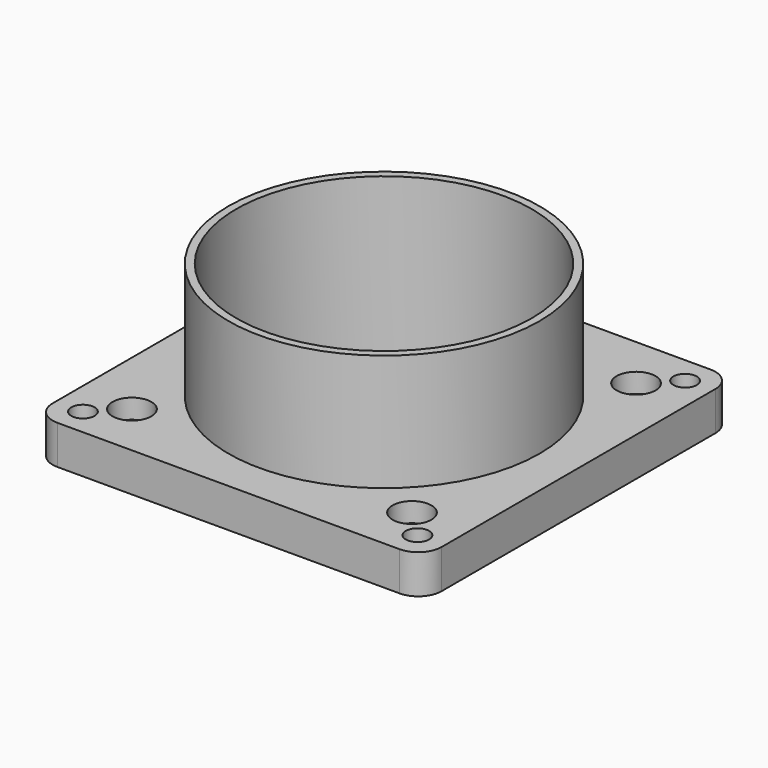
from build123d import *

# Parameters (mm, degrees)
SKETCH_W        = 100
SKETCH_H        = 100
PAD_DEPTH       = 10
SKETCH001_R     = 40
PAD001_DEPTH    = 30
SKETCH002_R     = 38
POCKET_DEPTH    = 55
SKETCH003_R     = 3
POCKET001_DEPTH = 10
SKETCH004_R     = 3
POCKET002_DEPTH = 10
SKETCH005_R     = 5
POCKET003_DEPTH = 5
FILLET_R        = 6


with BuildPart() as part:
    # Sketch → Pad (new body)
    with BuildSketch(Plane.XY):
        Rectangle(SKETCH_W, SKETCH_H)
    extrude(amount=PAD_DEPTH)

    # Sketch001 (on Face6 of Pad) → Pad001 (join)
    with BuildSketch(Plane.XY.offset(10)):
        Circle(SKETCH001_R)
    extrude(amount=PAD001_DEPTH)

    # Sketch002 (on Face8 of Pad001) → Pocket (cut)
    with BuildSketch(Plane.XY.offset(40)):
        Circle(SKETCH002_R)
    extrude(amount=-POCKET_DEPTH, mode=Mode.SUBTRACT)

    # Sketch003 (on Face4 of Pocket) → Pocket001 (cut)
    with BuildSketch(Plane(origin=(0, 0, 0), x_dir=(1, 0, 0), z_dir=(0, 0, -1))):
        with Locations((-36, 36)):
            Circle(SKETCH003_R)
        with Locations((36, 36)):
            Circle(SKETCH003_R)
        with Locations((36, -36)):
            Circle(SKETCH003_R)
        with Locations((-36, -36)):
            Circle(SKETCH003_R)
    extrude(amount=-POCKET001_DEPTH, mode=Mode.SUBTRACT)

    # Sketch004 (on Face4 of Pocket001) → Pocket002 (cut)
    with BuildSketch(Plane(origin=(0, 0, 0), x_dir=(1, 0, 0), z_dir=(0, 0, -1))):
        with Locations((-43, 43)):
            Circle(SKETCH004_R)
        with Locations((43, 43)):
            Circle(SKETCH004_R)
        with Locations((43, -43)):
            Circle(SKETCH004_R)
        with Locations((-43, -43)):
            Circle(SKETCH004_R)
    extrude(amount=-POCKET002_DEPTH, mode=Mode.SUBTRACT)

    # Sketch005 (on Face5 of Pocket002) → Pocket003 (cut)
    with BuildSketch(Plane.XY.offset(10)):
        with Locations((-36, 36)):
            Circle(SKETCH005_R)
        with Locations((36, 36)):
            Circle(SKETCH005_R)
        with Locations((36, -36)):
            Circle(SKETCH005_R)
        with Locations((-36, -36)):
            Circle(SKETCH005_R)
    extrude(amount=-POCKET003_DEPTH, mode=Mode.SUBTRACT)

    # Fillet
    fillet_edges = [part.edges().sort_by_distance(p)[0] for p in [
        (-50, -50, 5),
        (-50, 50, 5),
        (50, 50, 5),
        (50, -50, 5),
    ]]
    fillet(fillet_edges, radius=FILLET_R)


solid = part.part
